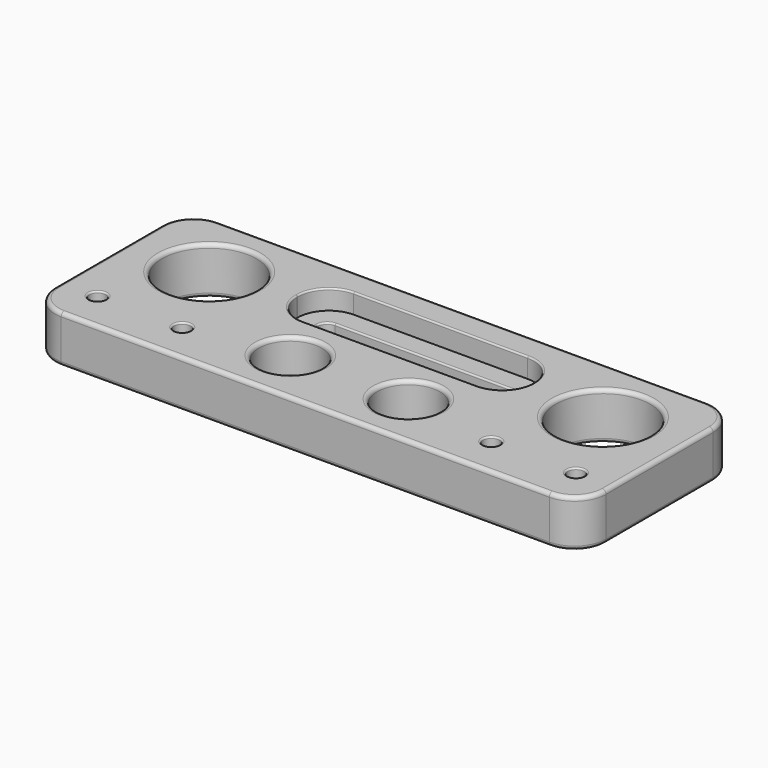
from build123d import *

# Parameters (mm, degrees)
CYLINDER014_R     = 8
CYLINDER014_DEPTH = 30
CYLINDER013_R     = 8
CYLINDER013_DEPTH = 30
CYLINDER012_R     = 12
CYLINDER012_DEPTH = 30
CYLINDER_R        = 12
CYLINDER_DEPTH    = 30
CYLINDER011_R     = 2.1
CYLINDER011_DEPTH = 20
CYLINDER010_R     = 2.1
CYLINDER010_DEPTH = 20
CYLINDER009_R     = 2.1
CYLINDER009_DEPTH = 20
CYLINDER007_R     = 2.1
CYLINDER007_DEPTH = 20
EXTRUDE006_DEPTH  = 6
EXTRUDE005_DEPTH  = 6
EXTRUDE003_DEPTH  = 6
EXTRUDE001_DEPTH  = 6
BOX014_W          = 50
BOX014_H          = 5.2
BOX014_DEPTH      = 20
FILLET005_R       = 2.5
BOX013_W          = 60
BOX013_H          = 16
BOX013_DEPTH      = 20
FILLET004_R       = 7.9
BOX_W             = 140
BOX_H             = 50
BOX_DEPTH         = 12
FILLET_R          = 8
FILLET006_R       = 1
FILLET007_R       = 0.4


with BuildPart() as cylinder014:
    # Cylinder014 → Cylinder014 (new body)
    with BuildSketch(Plane(origin=(85, 14, 0), x_dir=(1, 0, 0), z_dir=(0, 0, 1))):
        Circle(CYLINDER014_R)
    extrude(amount=CYLINDER014_DEPTH)


with BuildPart() as cylinder013:
    # Cylinder013 → Cylinder013 (new body)
    with BuildSketch(Plane(origin=(55, 14, 0), x_dir=(1, 0, 0), z_dir=(0, 0, 1))):
        Circle(CYLINDER013_R)
    extrude(amount=CYLINDER013_DEPTH)


with BuildPart() as cylinder012:
    # Cylinder012 → Cylinder012 (new body)
    with BuildSketch(Plane(origin=(120, 32, 0), x_dir=(1, 0, 0), z_dir=(0, 0, 1))):
        Circle(CYLINDER012_R)
    extrude(amount=CYLINDER012_DEPTH)


with BuildPart() as cylinder:
    # Cylinder → Cylinder (new body)
    with BuildSketch(Plane(origin=(20, 32, 0), x_dir=(1, 0, 0), z_dir=(0, 0, 1))):
        Circle(CYLINDER_R)
    extrude(amount=CYLINDER_DEPTH)


with BuildPart() as bohrung006:
    # Cylinder011 → Cylinder011 (new body)
    with BuildSketch(Plane(origin=(109.25, 10, 0), x_dir=(1, 0, 0), z_dir=(0, 0, 1))):
        Circle(CYLINDER011_R)
    extrude(amount=CYLINDER011_DEPTH)


with BuildPart() as bohrung005:
    # Cylinder010 → Cylinder010 (new body)
    with BuildSketch(Plane(origin=(130.75, 10, 0), x_dir=(1, 0, 0), z_dir=(0, 0, 1))):
        Circle(CYLINDER010_R)
    extrude(amount=CYLINDER010_DEPTH)


with BuildPart() as bohrung004:
    # Cylinder009 → Cylinder009 (new body)
    with BuildSketch(Plane(origin=(30.75, 10, 0), x_dir=(1, 0, 0), z_dir=(0, 0, 1))):
        Circle(CYLINDER009_R)
    extrude(amount=CYLINDER009_DEPTH)


with BuildPart() as bohrung002:
    # Cylinder007 → Cylinder007 (new body)
    with BuildSketch(Plane(origin=(9.25, 10, 0), x_dir=(1, 0, 0), z_dir=(0, 0, 1))):
        Circle(CYLINDER007_R)
    extrude(amount=CYLINDER007_DEPTH)


with BuildPart() as mutter007:
    # Polygon006 → Extrude006 (new body)
    with BuildSketch(Plane.XY):
        Polygon((4, 0), (2, 3.464102), (-2, 3.464102), (-4, 0), (-2, -3.464102), (2, -3.464102), align=None)
    extrude(amount=EXTRUDE006_DEPTH)


with BuildPart() as mutter007_1:
    # Extrude006 placement: moved
    add(mutter007.part.moved(Location((109.25, 10, 0))))


with BuildPart() as mutter006:
    # Polygon005 → Extrude005 (new body)
    with BuildSketch(Plane.XY):
        Polygon((4, 0), (2, 3.464102), (-2, 3.464102), (-4, 0), (-2, -3.464102), (2, -3.464102), align=None)
    extrude(amount=EXTRUDE005_DEPTH)


with BuildPart() as mutter006_1:
    # Extrude005 placement: moved
    add(mutter006.part.moved(Location((130.75, 10, 0))))


with BuildPart() as mutter004:
    # Polygon003 → Extrude003 (new body)
    with BuildSketch(Plane.XY):
        Polygon((4, 0), (2, 3.464102), (-2, 3.464102), (-4, 0), (-2, -3.464102), (2, -3.464102), align=None)
    extrude(amount=EXTRUDE003_DEPTH)


with BuildPart() as mutter004_1:
    # Extrude003 placement: moved
    add(mutter004.part.moved(Location((30.75, 10, 0))))


with BuildPart() as mutter002:
    # Polygon001 → Extrude001 (new body)
    with BuildSketch(Plane.XY):
        Polygon((4, 0), (2, 3.464102), (-2, 3.464102), (-4, 0), (-2, -3.464102), (2, -3.464102), align=None)
    extrude(amount=EXTRUDE001_DEPTH)


with BuildPart() as mutter002_1:
    # Extrude001 placement: moved
    add(mutter002.part.moved(Location((9.25, 10, 0))))


with BuildPart() as fillet005:
    # Box014 → Box014 (new body)
    with BuildSketch(Plane(origin=(45, 32.4, 0), x_dir=(1, 0, 0), z_dir=(0, 0, 1))):
        with Locations((25, 2.6)):
            Rectangle(BOX014_W, BOX014_H)
    extrude(amount=BOX014_DEPTH)

    # Fillet005
    fillet005_edges = [fillet005.edges().sort_by_distance(p)[0] for p in [
        (45, 32.4, 10),
        (45, 37.6, 10),
        (95, 32.4, 10),
        (95, 37.6, 10),
    ]]
    fillet(fillet005_edges, radius=FILLET005_R)


with BuildPart() as fillet004:
    # Box013 → Box013 (new body)
    with BuildSketch(Plane(origin=(40, 27, 7), x_dir=(1, 0, 0), z_dir=(0, 0, 1))):
        with Locations((30, 8)):
            Rectangle(BOX013_W, BOX013_H)
    extrude(amount=BOX013_DEPTH)

    # Fillet004
    fillet004_edges = [fillet004.edges().sort_by_distance(p)[0] for p in [
        (40, 27, 17),
        (40, 43, 17),
        (100, 27, 17),
        (100, 43, 17),
    ]]
    fillet(fillet004_edges, radius=FILLET004_R)


with BuildPart() as fillet007:
    # Box → Box (new body)
    with BuildSketch(Plane.XY):
        with Locations((70, 25)):
            Rectangle(BOX_W, BOX_H)
    extrude(amount=BOX_DEPTH)

    # Cut: cut Fillet004
    add(fillet004.part, mode=Mode.SUBTRACT)

    # Cut001: cut Fillet005
    add(fillet005.part, mode=Mode.SUBTRACT)

    # Cut002: cut Mutter002
    add(mutter002_1.part, mode=Mode.SUBTRACT)

    # Cut003: cut Mutter004
    add(mutter004_1.part, mode=Mode.SUBTRACT)

    # Cut004: cut Mutter006
    add(mutter006_1.part, mode=Mode.SUBTRACT)

    # Cut005: cut Mutter007
    add(mutter007_1.part, mode=Mode.SUBTRACT)

    # Cut006: cut Bohrung002
    add(bohrung002.part, mode=Mode.SUBTRACT)

    # Cut007: cut Bohrung004
    add(bohrung004.part, mode=Mode.SUBTRACT)

    # Cut008: cut Bohrung005
    add(bohrung005.part, mode=Mode.SUBTRACT)

    # Cut009: cut Bohrung006
    add(bohrung006.part, mode=Mode.SUBTRACT)

    # Cut010: cut Cylinder
    add(cylinder.part, mode=Mode.SUBTRACT)

    # Cut011: cut Cylinder012
    add(cylinder012.part, mode=Mode.SUBTRACT)

    # Cut012: cut Cylinder013
    add(cylinder013.part, mode=Mode.SUBTRACT)

    # Cut013: cut Cylinder014
    add(cylinder014.part, mode=Mode.SUBTRACT)

    # Fillet
    fillet_edges = [fillet007.edges().sort_by_distance(p)[0] for p in [
        (0, 0, 6),
        (0, 50, 6),
        (140, 0, 6),
        (140, 50, 6),
    ]]
    fillet(fillet_edges, radius=FILLET_R)

    # Fillet006
    fillet006_edges = [fillet007.edges().sort_by_distance(p)[0] for p in [
        (0, 25, 12),
        (0, 25, 0),
        (2.343146, 2.343146, 12),
        (2.343146, 47.656854, 12),
        (70, 0, 12),
        (70, 50, 12),
        (137.656854, 2.343146, 12),
        (137.656854, 47.656854, 12),
        (140, 25, 12),
        (47, 14, 12),
        (77, 14, 12),
        (108, 32, 12),
        (8, 32, 12),
        (2.343146, 2.343146, 0),
        (2.343146, 47.656854, 0),
        (70, 0, 0),
        (70, 50, 0),
        (137.656854, 2.343146, 0),
        (137.656854, 47.656854, 0),
        (140, 25, 0),
        (47, 14, 0),
        (77, 14, 0),
        (108, 32, 0),
        (8, 32, 0),
    ]]
    fillet(fillet006_edges, radius=FILLET006_R)

    # Fillet007
    fillet007_edges = [fillet007.edges().sort_by_distance(p)[0] for p in [
        (45.732233, 33.132233, 0),
        (70, 32.4, 0),
        (45.732233, 36.867767, 0),
        (94.267767, 33.132233, 0),
        (70, 37.6, 0),
        (94.267767, 36.867767, 0),
        (112.25, 11.732051, 0),
        (112.25, 8.267949, 0),
        (109.25, 13.464102, 0),
        (109.25, 6.535898, 0),
        (106.25, 11.732051, 0),
        (106.25, 8.267949, 0),
        (133.75, 11.732051, 0),
        (133.75, 8.267949, 0),
        (130.75, 13.464102, 0),
        (130.75, 6.535898, 0),
        (127.75, 11.732051, 0),
        (127.75, 8.267949, 0),
        (12.25, 11.732051, 0),
        (12.25, 8.267949, 0),
        (9.25, 13.464102, 0),
        (9.25, 6.535898, 0),
        (6.25, 11.732051, 0),
        (6.25, 8.267949, 0),
        (33.75, 11.732051, 0),
        (33.75, 8.267949, 0),
        (30.75, 13.464102, 0),
        (30.75, 6.535898, 0),
        (27.75, 11.732051, 0),
        (27.75, 8.267949, 0),
        (42.313856, 29.313856, 12),
        (70, 27, 12),
        (42.313856, 40.686144, 12),
        (97.686144, 29.313856, 12),
        (70, 43, 12),
        (97.686144, 40.686144, 12),
        (107.15, 10, 12),
        (128.65, 10, 12),
        (7.15, 10, 12),
        (28.65, 10, 12),
        (45.732233, 33.132233, 7),
        (70, 32.4, 7),
        (45.732233, 36.867767, 7),
        (94.267767, 33.132233, 7),
        (70, 37.6, 7),
        (94.267767, 36.867767, 7),
        (107.15, 10, 6),
        (128.65, 10, 6),
        (7.15, 10, 6),
        (28.65, 10, 6),
    ]]
    fillet(fillet007_edges, radius=FILLET007_R)


solid = fillet007.part
